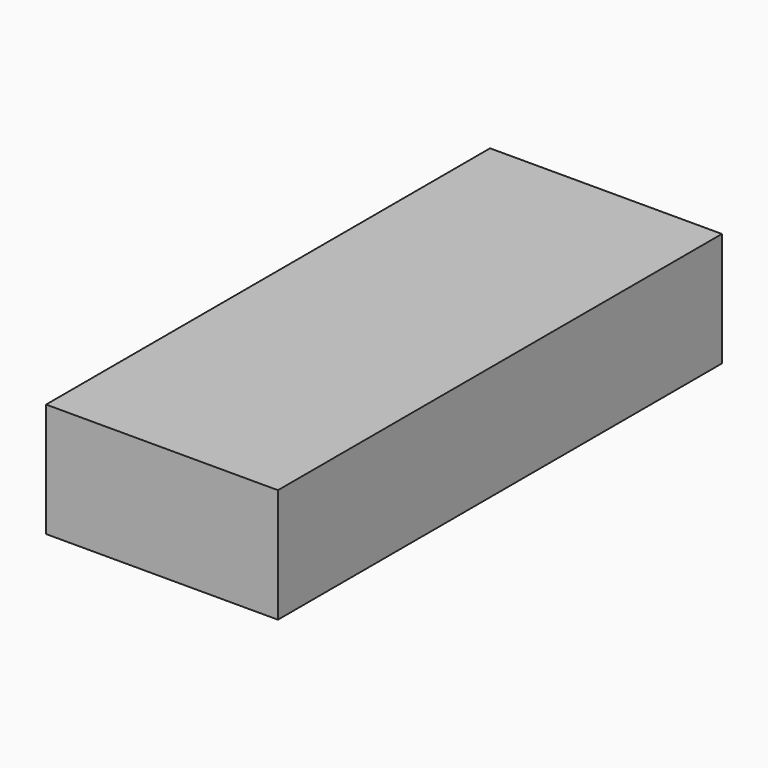
from build123d import *

# Parameters (mm, degrees)
F0_W     = 61
F0_H     = 146
F0_W_2   = 58
F0_H_2   = 143
F0_W_3   = 55
F0_H_3   = 140
F1_DEPTH = 2
F2_DEPTH = 28
F3_DEPTH = 30


with BuildPart() as f1:
    # F0 (on Top) → F1 (new body)
    with BuildSketch(Plane.XY):
        Rectangle(F0_W, F0_H)
        Rectangle(F0_W_2, F0_H_2, mode=Mode.SUBTRACT)
        Rectangle(F0_W_2, F0_H_2)
        Rectangle(F0_W_3, F0_H_3, mode=Mode.SUBTRACT)
        Rectangle(F0_W_3, F0_H_3)
    extrude(amount=-F1_DEPTH)

    # F0 (on Top) → F2 (join)
    with BuildSketch(Plane.XY):
        Rectangle(F0_W, F0_H)
        Rectangle(F0_W_2, F0_H_2, mode=Mode.SUBTRACT)
        Rectangle(F0_W_2, F0_H_2)
        Rectangle(F0_W_3, F0_H_3, mode=Mode.SUBTRACT)
    extrude(amount=-F2_DEPTH)

    # F0 (on Top) → F3 (join)
    with BuildSketch(Plane.XY):
        Rectangle(F0_W, F0_H)
        Rectangle(F0_W_2, F0_H_2, mode=Mode.SUBTRACT)
    extrude(amount=-F3_DEPTH)


solid = f1.part
